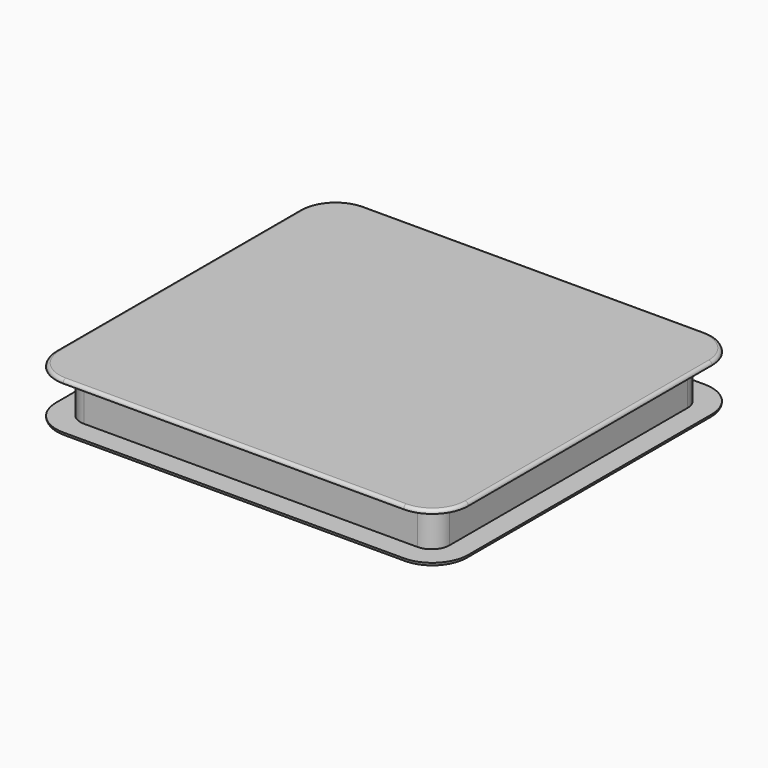
from build123d import *

# Parameters (mm, degrees)
PAD_DEPTH    = 6
PAD001_DEPTH = 1
PAD002_DEPTH = 1
FILLET_R     = 0.9


with BuildPart() as part:
    # Sketch → Pad (new body, symmetric)
    with BuildSketch(Plane.XY):
        with BuildLine():
            Line((-46.5, -46.5), (46.5, -46.5))
            ThreePointArc((46.5, -46.5), (50.035534, -45.035534), (51.5, -41.5))
            Line((51.5, -41.5), (51.5, 41.5))
            ThreePointArc((51.5, 41.5), (50.035534, 45.035534), (46.5, 46.5))
            Line((46.5, 46.5), (-46.5, 46.5))
            ThreePointArc((-46.5, 46.5), (-50.035534, 45.035534), (-51.5, 41.5))
            Line((-51.5, 41.5), (-51.5, -41.5))
            ThreePointArc((-51.5, -41.5), (-50.035534, -45.035534), (-46.5, -46.5))
        make_face()
    extrude(amount=PAD_DEPTH, both=True)

    # Sketch001 (on Face10 of Pad) → Pad001 (join)
    with BuildSketch(Plane.XY.offset(6)):
        with BuildLine():
            Line((-47.5, -52.5), (47.5, -52.5))
            ThreePointArc((47.5, -52.5), (54.571068, -49.571068), (57.5, -42.5))
            Line((57.5, -42.5), (57.5, 42.5))
            ThreePointArc((57.5, 42.5), (54.571068, 49.571068), (47.5, 52.5))
            Line((47.5, 52.5), (-47.5, 52.5))
            ThreePointArc((-47.5, 52.5), (-54.571068, 49.571068), (-57.5, 42.5))
            Line((-57.5, 42.5), (-57.5, -42.5))
            ThreePointArc((-57.5, -42.5), (-54.571068, -49.571068), (-47.5, -52.5))
        make_face()
    extrude(amount=PAD001_DEPTH)

    # Sketch002 (on Face4 of Pad001) → Pad002 (join)
    with BuildSketch(Plane(origin=(0, 0, -6), x_dir=(1, 0, 0), z_dir=(0, 0, -1))):
        with BuildLine():
            Line((-47.5, -52.5), (47.5, -52.5))
            ThreePointArc((47.5, -52.5), (54.571068, -49.571068), (57.5, -42.5))
            Line((57.5, -42.5), (57.5, 42.5))
            ThreePointArc((57.5, 42.5), (54.571068, 49.571068), (47.5, 52.5))
            Line((47.5, 52.5), (-47.5, 52.5))
            ThreePointArc((-47.5, 52.5), (-54.571068, 49.571068), (-57.5, 42.5))
            Line((-57.5, 42.5), (-57.5, -42.5))
            ThreePointArc((-57.5, -42.5), (-54.571068, -49.571068), (-47.5, -52.5))
        make_face()
    extrude(amount=PAD002_DEPTH)

    # Fillet
    fillet_edges = [part.edges().sort_by_distance(p)[0] for p in [
        (57.5, 0, -7),
        (57.5, 0, 7),
    ]]
    fillet(fillet_edges, radius=FILLET_R)


solid = part.part
